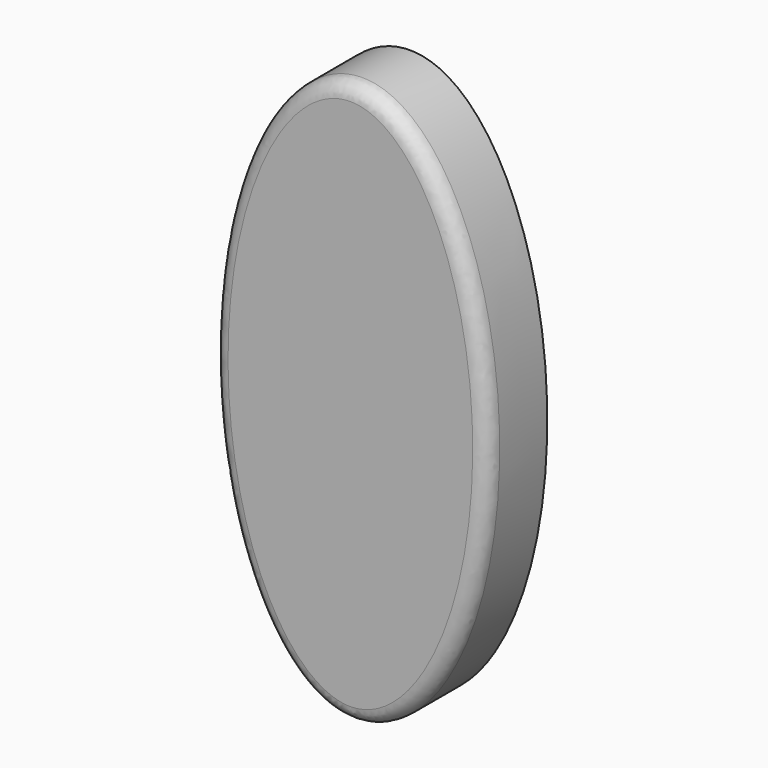
from build123d import *

# Parameters (mm, degrees)
F1_DEPTH = 9.144
F2_R     = 1.839631


with BuildPart() as f1:
    # F0 (on Front) → F1 (new body)
    with BuildSketch(Plane.XZ):
        with BuildLine():
            add(Edge.make_bspline(
                [(-31.946435, -16.116991), (-2.742146, -16.116991), (-17.344291, 35.688043), (-31.946435, 87.493077), (-46.54858, 35.688043), (-61.150724, -16.116991), (-31.946435, -16.116991)],
                knots=[0, 0, 0, 2.094395, 2.094395, 4.18879, 4.18879, 6.283185, 6.283185, 6.283185], degree=2, weights=[1, 0.5, 1, 0.5, 1, 0.5, 1]))
        make_face()
    extrude(amount=F1_DEPTH)

    # F2
    f2_edges = [f1.edges().sort_by_distance(p)[0] for p in [
        (-31.94643, -9.144, 52.956388),
    ]]
    fillet(f2_edges, radius=F2_R)


solid = f1.part
